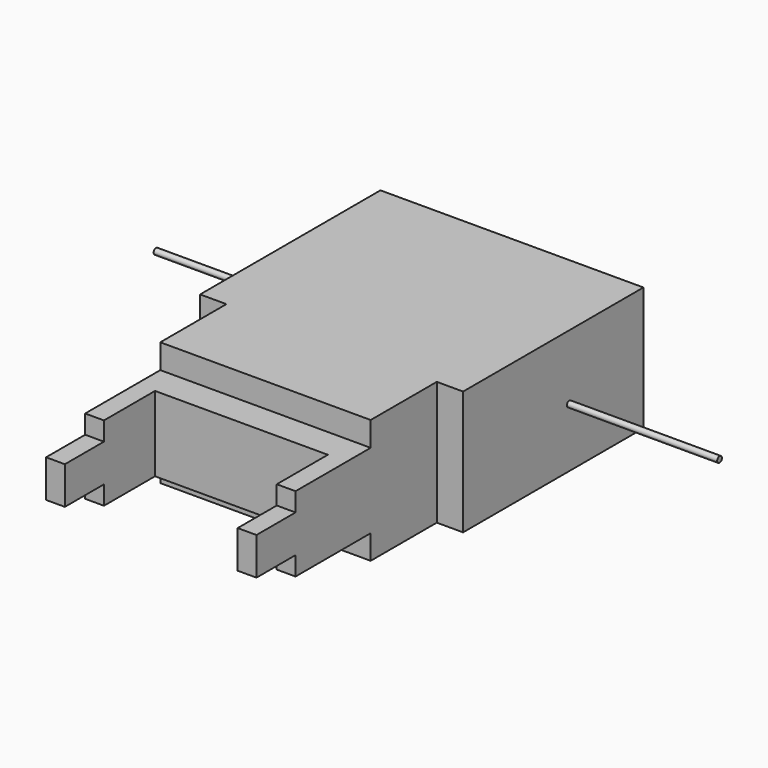
from build123d import *

# Parameters (mm, degrees)
F0_W     = 3.175
F0_H     = 19.05
F1_DEPTH = 20.955
F3_DEPTH = 45.72
F4_R     = 0.5
F5_DEPTH = 25.4


with BuildPart() as f1:
    # F0 (on Top) → F1 (new body)
    with BuildSketch(Plane.XY):
        Polygon((22.225, 48.458836), (-22.225, 48.458836), (-22.225, 10.358836), (-17.78, 10.358836), (17.78, 10.358836), (22.225, 10.358836), align=None)
        Polygon((17.78, 10.358836), (-17.78, 10.358836), (-17.78, -8.691164), (-14.605, -8.691164), (14.605, -8.691164), (17.78, -8.691164), align=None)
        with Locations((-16.1925, -18.216164)):
            Rectangle(F0_W, F0_H)
        with Locations((16.1925, -18.216164)):
            Rectangle(F0_W, F0_H)
    extrude(amount=F1_DEPTH)

    # F2 (on face) → F3 (cut)
    with BuildSketch(Plane(origin=(-17.78, 0, 0), x_dir=(0, -1, 0), z_dir=(-1, 0, 0))):
        Polygon((19.486164, 13.6525), (27.741164, 13.6525), (27.741164, 20.955), (3.611164, 20.955), (3.611164, 16.8148), (19.486164, 16.8148), align=None)
        Polygon((27.741164, 0), (27.741164, 7.3025), (19.486164, 7.3025), (19.486164, 4.1148), (3.611164, 4.1148), (3.611164, 0), align=None)
    extrude(amount=-F3_DEPTH, mode=Mode.SUBTRACT)

    # F4 (on face) → F5 (join)
    with BuildSketch(Plane(origin=(-22.225, 0, 0), x_dir=(0, -1, 0), z_dir=(-1, 0, 0))):
        with Locations((-32.797098, 9.996843)):
            Circle(F4_R)
    extrude(amount=F5_DEPTH)

    # F6: F1 across plane


with BuildPart() as f1_1:
    add(f1.part)
    add(f1.part.mirror(Plane.YZ))


solid = f1_1.part
